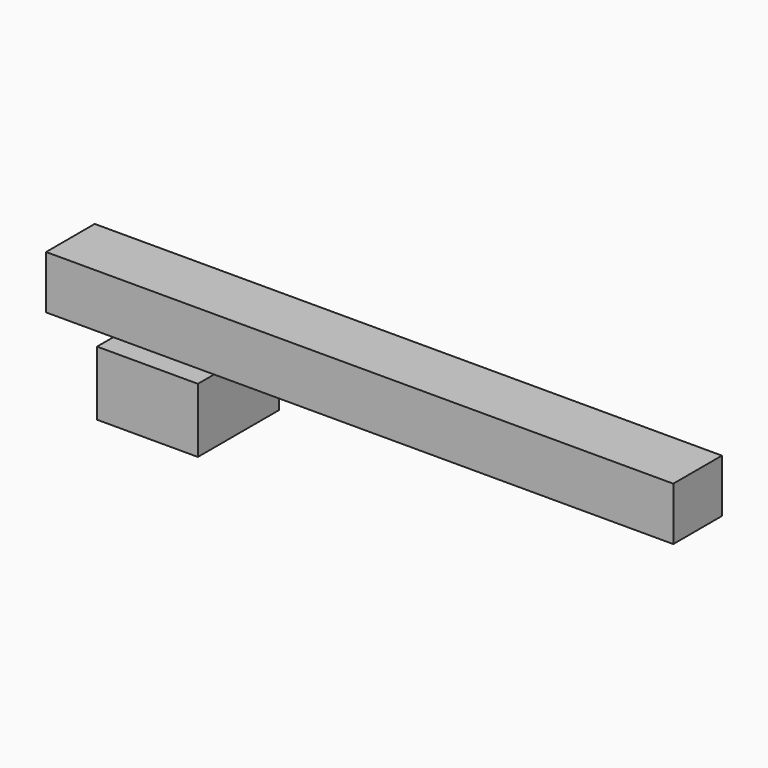
from build123d import *

# Parameters (mm, degrees)
F1_DEPTH = 1.5
F2_W     = 4.974715
F2_H     = 3.17829
F3_DEPTH = 2.5


with BuildPart() as f1:
    # F0 (on Front) → F1 (new body, symmetric)
    with BuildSketch(Plane.XZ):
        Polygon((-48.918031, 0), (-43.666944, 0), (-17.964249, 0), (-17.964249, 2.625544), (-48.918031, 2.625544), align=None)
    extrude(amount=F1_DEPTH, both=True)

    # F2 (on Front) → F3 (join, symmetric)
    with BuildSketch(Plane.XZ):
        with Locations((-43.114196, -1.589145)):
            Rectangle(F2_W, F2_H)
    extrude(amount=F3_DEPTH, both=True)


solid = f1.part
